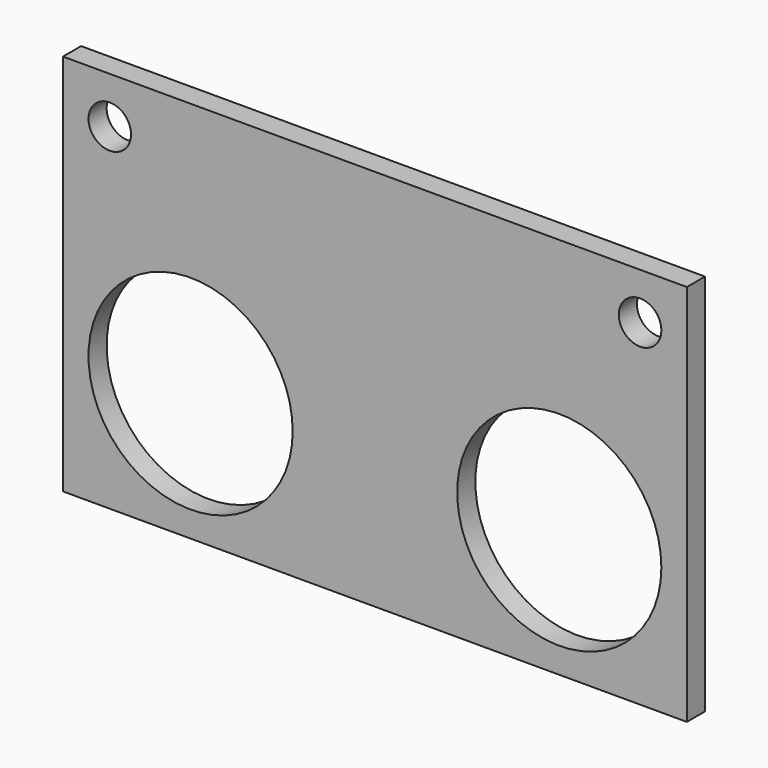
from build123d import *

# Parameters (mm, degrees)
F0_W     = 440
F0_H     = 270
F0_R     = 72
F0_R_2   = 15
F1_DEPTH = 16


with BuildPart() as f1:
    # F0 (on Front) → F1 (new body)
    with BuildSketch(Plane.XZ):
        with Locations((1.63351, -44.960873)):
            Rectangle(F0_W, F0_H)
        with Locations((-128.36649, -89.960873)):
            Circle(F0_R, mode=Mode.SUBTRACT)
        with Locations((131.63351, -89.960873)):
            Circle(F0_R, mode=Mode.SUBTRACT)
        with Locations((-185.36649, 57.28519)):
            Circle(F0_R_2, mode=Mode.SUBTRACT)
        with Locations((188.63351, 57.28519)):
            Circle(F0_R_2, mode=Mode.SUBTRACT)
    extrude(amount=F1_DEPTH)


solid = f1.part
